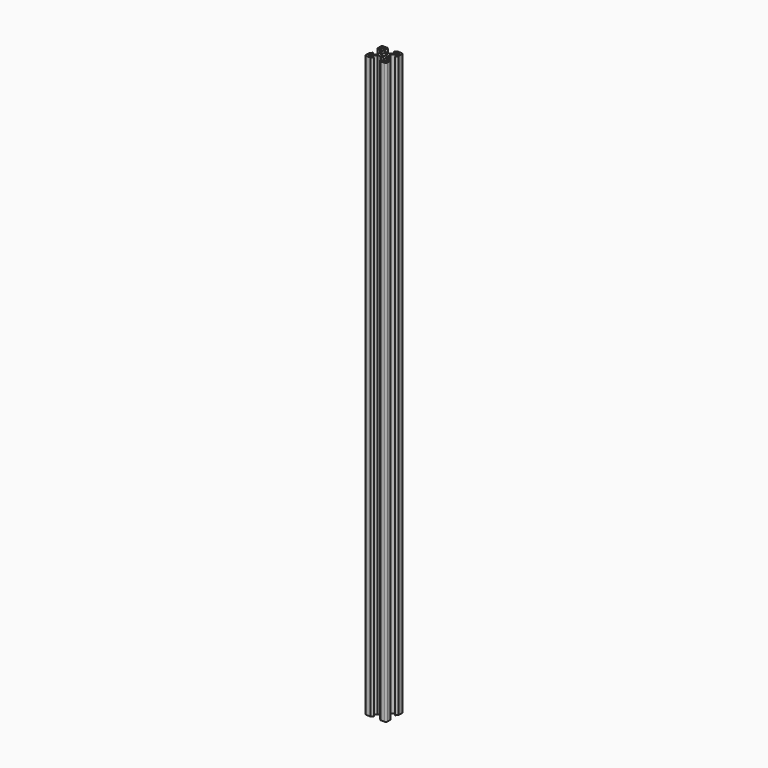
from build123d import *

# Parameters (mm, degrees)
F0_R     = 2.1
F1_DEPTH = 545


with BuildPart() as f1:
    # F0 (on Top) → F1 (new body)
    with BuildSketch(Plane.XY):
        with BuildLine():
            Line((10, 4.410115), (10, 8.270115))
            ThreePointArc((10, 8.270115), (9.56066, 9.330775), (8.5, 9.770115))
            Line((8.5, 9.770115), (4.64, 9.770115))
            Line((4.64, 9.770115), (2.84, 7.970115))
            Line((2.84, 7.970115), (5.49934, 7.970115))
            Line((5.49934, 7.970115), (5.49934, 6.330115))
            Line((5.49934, 6.330115), (2.84, 3.670775))
            Line((2.84, 3.670775), (0.25, 3.670775))
            Line((0.25, 3.670775), (0, 3.420775))
            Line((0, 3.420775), (-0.25, 3.670775))
            Line((-0.25, 3.670775), (-2.84, 3.670775))
            Line((-2.84, 3.670775), (-5.49934, 6.330115))
            Line((-5.49934, 6.330115), (-5.49934, 7.970115))
            Line((-5.49934, 7.970115), (-2.84, 7.970115))
            Line((-2.84, 7.970115), (-4.64, 9.770115))
            Line((-4.64, 9.770115), (-8.5, 9.770115))
            ThreePointArc((-8.5, 9.770115), (-9.56066, 9.330775), (-10, 8.270115))
            Line((-10, 8.270115), (-10, 4.410115))
            Line((-10, 4.410115), (-8.2, 2.610115))
            Line((-8.2, 2.610115), (-8.2, 5.269455))
            Line((-8.2, 5.269455), (-6.56, 5.269455))
            Line((-6.56, 5.269455), (-3.90066, 2.610115))
            Line((-3.90066, 2.610115), (-3.90066, 0.020115))
            Line((-3.90066, 0.020115), (-3.65066, -0.229885))
            Line((-3.65066, -0.229885), (-3.90066, -0.479885))
            Line((-3.90066, -0.479885), (-3.90066, -3.069885))
            Line((-3.90066, -3.069885), (-6.56, -5.729225))
            Line((-6.56, -5.729225), (-8.2, -5.729225))
            Line((-8.2, -5.729225), (-8.2, -3.069885))
            Line((-8.2, -3.069885), (-10, -4.869885))
            Line((-10, -4.869885), (-10, -8.729885))
            ThreePointArc((-10, -8.729885), (-9.56066, -9.790545), (-8.5, -10.229885))
            Line((-8.5, -10.229885), (-4.64, -10.229885))
            Line((-4.64, -10.229885), (-2.84, -8.429885))
            Line((-2.84, -8.429885), (-5.49934, -8.429885))
            Line((-5.49934, -8.429885), (-5.49934, -6.789885))
            Line((-5.49934, -6.789885), (-2.84, -4.130545))
            Line((-2.84, -4.130545), (-0.25, -4.130545))
            Line((-0.25, -4.130545), (0, -3.880545))
            Line((0, -3.880545), (0.25, -4.130545))
            Line((0.25, -4.130545), (2.84, -4.130545))
            Line((2.84, -4.130545), (5.49934, -6.789885))
            Line((5.49934, -6.789885), (5.49934, -8.429885))
            Line((5.49934, -8.429885), (2.84, -8.429885))
            Line((2.84, -8.429885), (4.64, -10.229885))
            Line((4.64, -10.229885), (8.5, -10.229885))
            ThreePointArc((8.5, -10.229885), (9.56066, -9.790545), (10, -8.729885))
            Line((10, -8.729885), (10, -4.869885))
            Line((10, -4.869885), (8.2, -3.069885))
            Line((8.2, -3.069885), (8.2, -5.729225))
            Line((8.2, -5.729225), (6.56, -5.729225))
            Line((6.56, -5.729225), (3.90066, -3.069885))
            Line((3.90066, -3.069885), (3.90066, -0.479885))
            Line((3.90066, -0.479885), (3.65066, -0.229885))
            Line((3.65066, -0.229885), (3.90066, 0.020115))
            Line((3.90066, 0.020115), (3.90066, 2.610115))
            Line((3.90066, 2.610115), (6.56, 5.269455))
            Line((6.56, 5.269455), (8.2, 5.269455))
            Line((8.2, 5.269455), (8.2, 2.610115))
            Line((8.2, 2.610115), (10, 4.410115))
        make_face()
        Polygon((-6.56934, -7.859885), (-6.56934, -8.429885), (-8.2, -8.429885), (-8.2, -6.799225), (-7.63, -6.799225), align=None, mode=Mode.SUBTRACT)
        Polygon((8.2, -8.429885), (6.56934, -8.429885), (6.56934, -7.859885), (7.63, -6.799225), (8.2, -6.799225), align=None, mode=Mode.SUBTRACT)
        Polygon((-7.63, 6.339455), (-8.2, 6.339455), (-8.2, 7.970115), (-6.56934, 7.970115), (-6.56934, 7.400115), align=None, mode=Mode.SUBTRACT)
        with Locations((0, -0.229885)):
            Circle(F0_R, mode=Mode.SUBTRACT)
        Polygon((6.56934, 7.400115), (6.56934, 7.970115), (8.2, 7.970115), (8.2, 6.339455), (7.63, 6.339455), align=None, mode=Mode.SUBTRACT)
    extrude(amount=F1_DEPTH)


solid = f1.part
